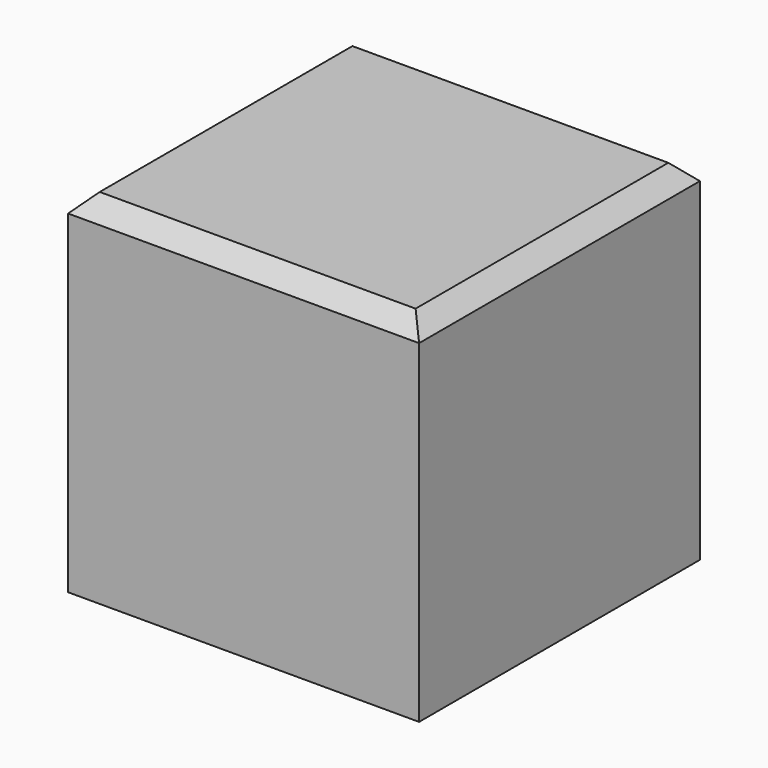
from build123d import *

# Parameters (mm, degrees)
F0_W     = 50.8
F0_H     = 50.8
F1_DEPTH = 25.4
F2_SIZE  = 2.54


with BuildPart() as f1:
    # F0 (on Top) → F1 (new body, symmetric)
    with BuildSketch(Plane.XY):
        Rectangle(F0_W, F0_H)
    extrude(amount=F1_DEPTH, both=True)

    # F2
    f2_edges = [f1.edges().sort_by_distance(p)[0] for p in [
        (0, 25.4, 25.4),
        (-25.4, 0, 25.4),
        (0, -25.4, 25.4),
        (25.4, 0, 25.4),
    ]]
    chamfer(f2_edges, length=F2_SIZE)


solid = f1.part
